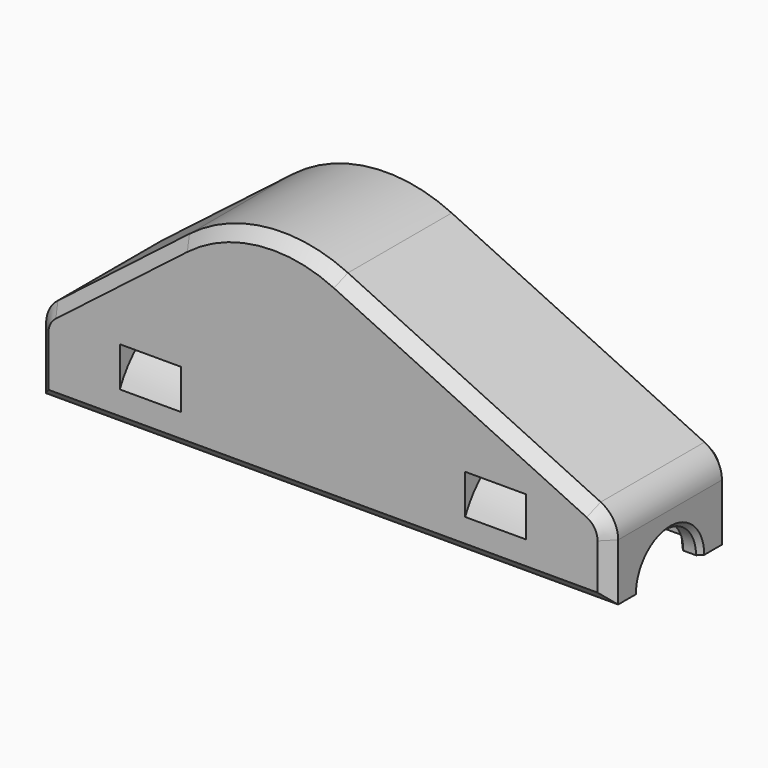
from build123d import *

# Parameters (mm, degrees)
PAD_DEPTH       = 10
SKETCH001_R     = 5
POCKET_DEPTH    = 75.001
POCKET001_DEPTH = 15
SKETCH003_W     = 24
SKETCH003_H     = 7.6
SKETCH003_W_2   = 8
SKETCH003_H_2   = 3
CHAMFER_SIZE    = 0.6
FILLET_R        = 20
FILLET001_R     = 4
CHAMFER001_SIZE = 1.5
CHAMFER002_SIZE = 1


with BuildPart() as part:
    # Sketch → Pad (new body, symmetric)
    with BuildSketch(Plane.XZ):
        Polygon((-37.5, 0), (37.5, 0), (37.5, 10), (-9, 32), (-37.5, 10), align=None)
    extrude(amount=PAD_DEPTH, both=True)

    # Sketch001 (on Face2 of Pad) → Pocket (cut, through all)
    with BuildSketch(Plane(origin=(37.5, 0, 0), x_dir=(0, 0, 1), z_dir=(1, 0, 0))):
        Circle(SKETCH001_R)
    extrude(amount=-POCKET_DEPTH, mode=Mode.SUBTRACT)

    # Sketch002 (on Face2 of Pocket) → Pocket001 (cut)
    with BuildSketch(Plane(origin=(0, 10, 0), x_dir=(1, 0, 0), z_dir=(0, 1, 0))):
        Polygon((-9.7, -25.4), (-9.7, -6), (9.7, -6), (9.7, -7.8), (-7.9, -7.8), (-7.9, -25.4), align=None)
    extrude(amount=-POCKET001_DEPTH, mode=Mode.SUBTRACT)

    # Sketch003 → Groove (revolve, cut)
    with BuildSketch(Plane.XZ):
        with Locations((-22.636851, 3.8)):
            Rectangle(SKETCH003_W, SKETCH003_H)
        with Locations((22.636851, 3.8)):
            Rectangle(SKETCH003_W, SKETCH003_H)
        with Locations((-22.636851, 12.5)):
            Rectangle(SKETCH003_W_2, SKETCH003_H_2)
        with Locations((22.636851, 12.5)):
            Rectangle(SKETCH003_W_2, SKETCH003_H_2)
    revolve(axis=Axis((0, 0, 0), (1, 0, 0)), mode=Mode.SUBTRACT)

    # Chamfer
    chamfer_edges = [part.edges().sort_by_distance(p)[0] for p in [
        (37.5, 3.535534, 3.535534),
        (34.636851, 0, 5),
        (10.636851, 0, 5),
        (-10.636851, 0, 5),
        (-34.636851, 0, 5),
        (-37.5, 3.535534, 3.535534),
    ]]
    chamfer(chamfer_edges, length=CHAMFER_SIZE)

    # Fillet
    fillet_edges = [part.edges().sort_by_distance(p)[0] for p in [
        (-9, 0, 32),
    ]]
    fillet(fillet_edges, radius=FILLET_R)

    # Fillet001
    fillet001_edges = [part.edges().sort_by_distance(p)[0] for p in [
        (37.5, 0, 10),
        (-37.5, 0, 10),
    ]]
    fillet(fillet001_edges, radius=FILLET001_R)

    # Chamfer001
    chamfer001_edges = [part.edges().sort_by_distance(p)[0] for p in [
        (18.643068, 10, 18.921559),
        (0, 10, 0),
        (18.643068, -10, 18.921559),
        (0, -10, 0),
    ]]
    chamfer(chamfer001_edges, length=CHAMFER001_SIZE)

    # Chamfer002
    chamfer002_edges = [part.edges().sort_by_distance(p)[0] for p in [
        (-9.7, 10, 15.7),
        (-7.9, 10, 16.6),
        (-8.8, 10, 25.4),
        (0, 10, 6),
        (0.9, 10, 7.8),
        (9.7, 10, 6.9),
    ]]
    chamfer(chamfer002_edges, length=CHAMFER002_SIZE)


solid = part.part
